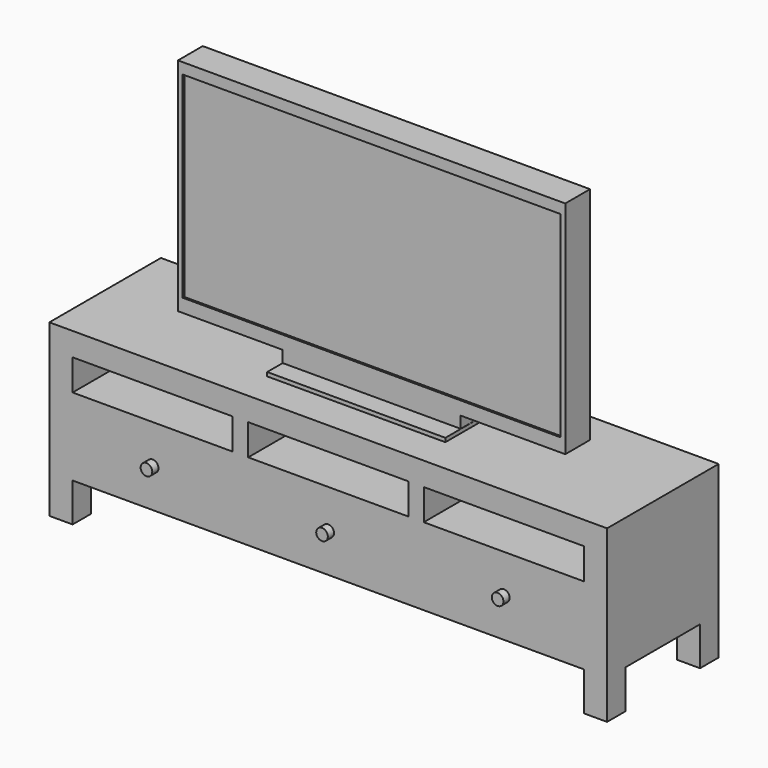
from build123d import *

# Parameters (mm, degrees)
F0_W      = 76.2
F0_H      = 127
F0_W_2    = 50.8
F0_H_2    = 101.6
F1_DEPTH  = 228.6
F2_W      = 304.8
F2_H      = 127
F3_DEPTH  = 1828.801
F0_W_3    = 584.2
F0_H_3    = 50.8
F4_DEPTH  = 50.8
F5_W      = 584.2
F5_H      = 228.6
F6_DEPTH  = 12.7
F7_R      = 19.05
F8_DEPTH  = 25.4
F9_W      = 1239.3679447479
F9_H      = 644.6519196678
F10_DEPTH = 6.35


with BuildPart() as f1:
    # F0 (on Front) → F1 (new body, symmetric)
    with BuildSketch(Plane.XZ):
        Polygon((0, 558.8), (0, 127), (76.2, 127), (1752.6, 127), (1828.8, 127), (1828.8, 558.8), (1206.5, 558.8), (622.3, 558.8), align=None)
        Polygon((76.2, 381), (76.2, 482.6), (601.1333333333, 482.6), (651.9333333333, 482.6), (1176.8666666667, 482.6), (1227.6666666667, 482.6), (1752.6, 482.6), (1752.6, 381), (1227.6666666667, 381), (1176.8666666667, 381), (651.9333333333, 381), (601.1333333333, 381), align=None, mode=Mode.SUBTRACT)
        with Locations((38.1, 63.5)):
            Rectangle(F0_W, F0_H)
        with Locations((1790.7, 63.5)):
            Rectangle(F0_W, F0_H)
        with Locations((626.5333333333, 431.8)):
            Rectangle(F0_W_2, F0_H_2)
        with Locations((1202.2666666667, 431.8)):
            Rectangle(F0_W_2, F0_H_2)
    extrude(amount=F1_DEPTH, both=True)

    # F2 (on face) → F3 (cut, through all)
    with BuildSketch(Plane.YZ.offset(1828.8)):
        with Locations((0, 63.5)):
            Rectangle(F2_W, F2_H)
    extrude(amount=-F3_DEPTH, mode=Mode.SUBTRACT)

    # F0 (on Front) → F4 (join, symmetric)
    with BuildSketch(Plane.XZ):
        Polygon((279.4, 609.6), (622.3, 609.6), (1206.5, 609.6), (1549.4, 609.6), (1549.4, 1333.5), (279.4, 1333.5), align=None)
        with Locations((914.4, 584.2)):
            Rectangle(F0_W_3, F0_H_3)
    extrude(amount=F4_DEPTH, both=True)

    # F5 (on face) → F6 (join)
    with BuildSketch(Plane.XY.offset(558.8)):
        with Locations((915.0145053864, 0)):
            Rectangle(F5_W, F5_H)
    extrude(amount=F6_DEPTH)

    # F7 (on face) → F8 (join)
    with BuildSketch(Plane.XZ.offset(228.6)):
        with Locations((338.6666666667, 254)):
            Circle(F7_R)
        with Locations((914.4, 254)):
            Circle(F7_R)
        with Locations((1490.1333333333, 254)):
            Circle(F7_R)
    extrude(amount=F8_DEPTH)

    # F9 (on face) → F10 (cut)
    with BuildSketch(Plane.XZ.offset(50.8)):
        with Locations((914.7072526932, 975.6220156918)):
            Rectangle(F9_W, F9_H)
    extrude(amount=-F10_DEPTH, mode=Mode.SUBTRACT)


solid = f1.part
